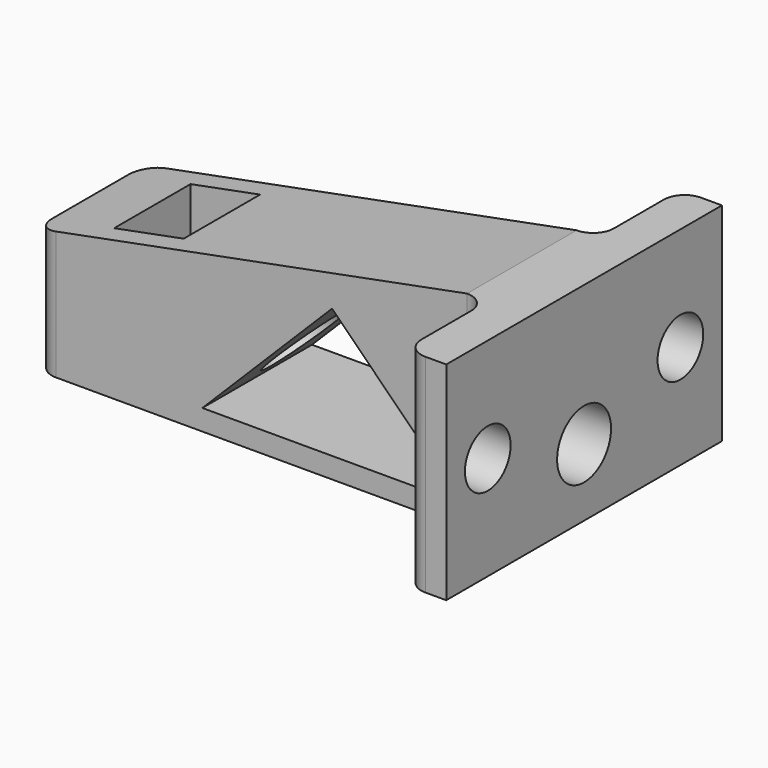
from build123d import *

# Parameters (mm, degrees)
PAD125_DEPTH            = 10
SKETCH264_R             = 2.75
POCKET112_DEPTH         = 41.501
SKETCH265_R             = 2.1
POCKET113_DEPTH         = 16
POCKET114_DEPTH         = 108.4688754286
POCKET114_DEPTH_BACK    = 125.0688754286
SKETCH_R                = 3.25
POCKET_DEPTH            = 34.901
BODY089_PITCH_ANGLE     = -90
BODY089_PLACEMENT_ANGLE = -180


with BuildPart() as part:
    # Sketch263 → Pad125 (new body, symmetric)
    with BuildSketch(Plane.YZ):
        with BuildLine():
            Line((-16.6, 41.5), (-16.6, 39.5))
            ThreePointArc((-16.6, 39.5), (-16.0142135624, 38.0857864376), (-14.6, 37.5))
            Line((-14.6, 37.5), (-8.6, 37.5))
            ThreePointArc((-6.6, 35.5), (-7.1857864376, 36.9142135624), (-8.6, 37.5))
            Line((-6.6, 35.5), (-6.6, -4.1))
            ThreePointArc((-6.6, -4.1), (-6.0142135624, -5.5142135624), (-4.6, -6.1))
            Line((-4.6, -6.1), (0, -6.1))
            Line((0, -6.1), (0, -0.1))
            Line((0, -0.1), (-4.6, -0.1))
            Line((-4.6, -0.1), (-4.6, 6.6))
            Line((-4.6, 6.6), (0, 6.6))
            Line((0, 6.6), (0, 41.5))
            Line((0, 41.5), (-16.6, 41.5))
        make_face()
    extrude(amount=PAD125_DEPTH, both=True)

    # Sketch264 → Pocket112 (cut, through all)
    with BuildSketch(Plane(origin=(0, 0, 0), x_dir=(-1, 0, 0), z_dir=(0, 0, -1))):
        with Locations((0, -11.6)):
            Circle(SKETCH264_R)
    extrude(amount=-POCKET112_DEPTH, mode=Mode.SUBTRACT)

    # Sketch265 (on Face7 of Pocket112) → Pocket113 (cut)
    with BuildSketch(Plane.YX.offset(0.1)):
        with Locations((0, -3.5)):
            Circle(SKETCH265_R)
    extrude(amount=POCKET113_DEPTH, mode=Mode.SUBTRACT)

    # Sketch266 → Pocket114 (cut, two sides)
    with BuildSketch(Plane.XZ) as pocket114_sk:
        Polygon((10, -6.1), (10, 35.5), (2, -6.1), align=None)
        Polygon((-8, 35), (4.5, 22.5), (-8, 10), align=None)
    extrude(amount=-POCKET114_DEPTH, mode=Mode.SUBTRACT)
    extrude(pocket114_sk.sketch, amount=POCKET114_DEPTH_BACK, mode=Mode.SUBTRACT)

    # Mirrored011: part across XZ


with BuildPart() as part_1:
    add(part.part)
    add(part.part.mirror(Plane.XZ))

    # Sketch (on Face24 of Mirrored011) → Pocket (cut, through all)
    with BuildSketch(Plane.YX.offset(-6.6)):
        with Locations((0, -3.5)):
            Circle(SKETCH_R)
    extrude(amount=-POCKET_DEPTH, mode=Mode.SUBTRACT)


with BuildPart() as part_2:
    # Body089 pitch: moved
    add(part_1.part.rotate(Axis((0, 0, 0), (0, 1, 0)), BODY089_PITCH_ANGLE))


with BuildPart() as part_3:
    # Body089 placement: moved
    add(part_2.part.moved(Location((0, 0, 218))).rotate(Axis((0, 0, 218), (0, 0, 1)), BODY089_PLACEMENT_ANGLE))


solid = part_3.part
